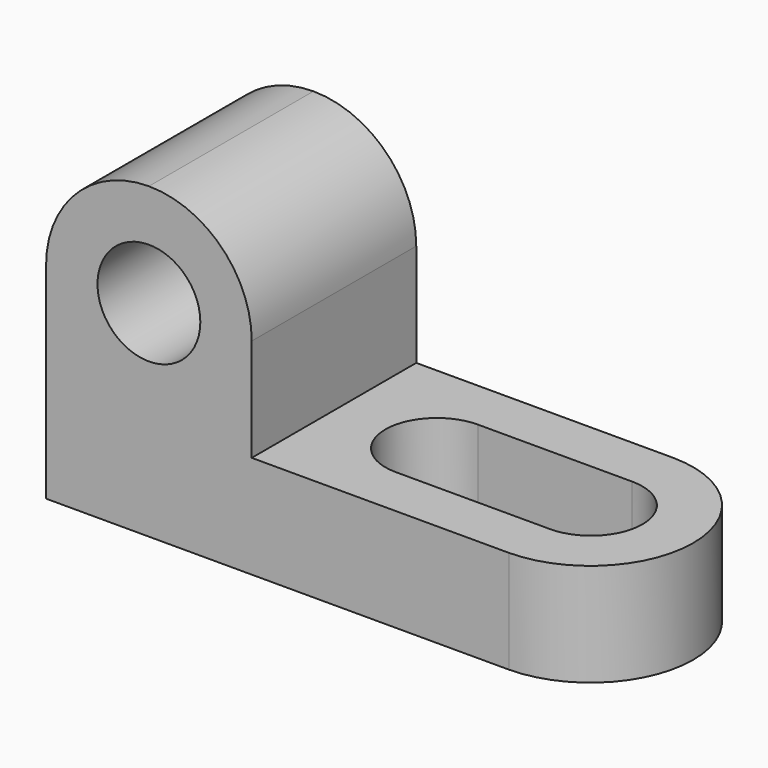
from build123d import *

# Parameters (mm, degrees)
F0_W     = 69.85
F0_H     = 38.1
F1_DEPTH = 25.4
F2_W     = 44.45
F2_H     = 25.4
F3_DEPTH = 25.4
F4_R     = 6.35
F5_DEPTH = 25.4
F7_DEPTH = 12.7


with BuildPart() as f1:
    # F0 (on Front) → F1 (new body)
    with BuildSketch(Plane.XZ):
        with Locations((34.925, 19.05)):
            Rectangle(F0_W, F0_H)
    extrude(amount=F1_DEPTH)

    # F2 (on face) → F3 (cut)
    with BuildSketch(Plane.XZ.offset(25.4)):
        with Locations((47.625, 25.4)):
            Rectangle(F2_W, F2_H)
    extrude(amount=-F3_DEPTH, mode=Mode.SUBTRACT)

    # F4 (on face) → F5 (cut)
    with BuildSketch(Plane.XZ.offset(25.4)):
        with BuildLine():
            ThreePointArc((0, 25.4), (3.7197438789, 34.3802561211), (12.7, 38.1))
            Line((12.7, 38.1), (0, 38.1))
            Line((0, 38.1), (0, 25.4))
        make_face()
        with BuildLine():
            ThreePointArc((12.7, 38.1), (21.6802561211, 34.3802561211), (25.4, 25.4))
            Line((25.4, 25.4), (25.4, 38.1))
            Line((25.4, 38.1), (12.7, 38.1))
        make_face()
        with Locations((12.7, 25.4)):
            Circle(F4_R)
    extrude(amount=-F5_DEPTH, mode=Mode.SUBTRACT)

    # F6 (on face) → F7 (cut)
    with BuildSketch(Plane.XY.offset(12.7)):
        with BuildLine():
            ThreePointArc((44.45, -12.7), (42.5901280605, -8.2098719395), (38.1, -6.35))
            ThreePointArc((38.1, -6.35), (31.75, -12.7), (38.1, -19.05))
            ThreePointArc((38.1, -19.05), (42.5901280605, -17.1901280605), (44.45, -12.7))
        make_face()
        with BuildLine():
            ThreePointArc((57.15, -19.05), (50.8, -12.7), (57.15, -6.35))
            Line((57.15, -6.35), (38.1, -6.35))
            ThreePointArc((38.1, -6.35), (42.5901280605, -8.2098719395), (44.45, -12.7))
            ThreePointArc((44.45, -12.7), (42.5901280605, -17.1901280605), (38.1, -19.05))
            Line((38.1, -19.05), (57.15, -19.05))
        make_face()
        with BuildLine():
            ThreePointArc((57.15, -19.05), (61.6401280605, -17.1901280605), (63.5, -12.7))
            ThreePointArc((63.5, -12.7), (61.6401280605, -8.2098719395), (57.15, -6.35))
            ThreePointArc((57.15, -6.35), (50.8, -12.7), (57.15, -19.05))
        make_face()
        with BuildLine():
            ThreePointArc((57.15, 0), (69.765112078, -12.7), (57.15, -25.4))
            Line((57.15, -25.4), (69.85, -25.4))
            Line((69.85, -25.4), (69.85, 0))
            Line((69.85, 0), (57.15, 0))
        make_face()
    extrude(amount=-F7_DEPTH, mode=Mode.SUBTRACT)


solid = f1.part
